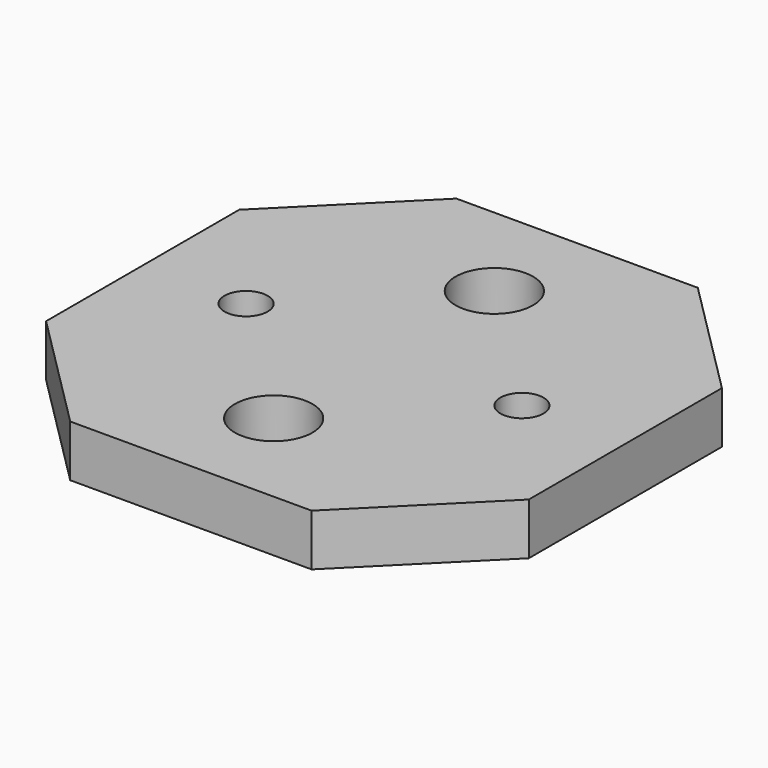
from build123d import *

# Parameters (mm, degrees)
F0_R     = 14.2875
F0_R_2   = 7.9375
F1_DEPTH = 19.05


with BuildPart() as f1:
    # F0 (on Top) → F1 (new body)
    with BuildSketch(Plane.XY):
        Polygon((88.9, 44.45), (44.45, 88.9), (-44.45, 88.9), (-88.9, 44.45), (-88.9, -44.45), (-44.45, -88.9), (44.45, -88.9), (88.9, -44.45), align=None)
        with Locations((0, -50.8)):
            Circle(F0_R, mode=Mode.SUBTRACT)
        with Locations((-50.8, 0)):
            Circle(F0_R_2, mode=Mode.SUBTRACT)
        with Locations((50.8, 0)):
            Circle(F0_R_2, mode=Mode.SUBTRACT)
        with Locations((0, 50.8)):
            Circle(F0_R, mode=Mode.SUBTRACT)
    extrude(amount=F1_DEPTH)


solid = f1.part
